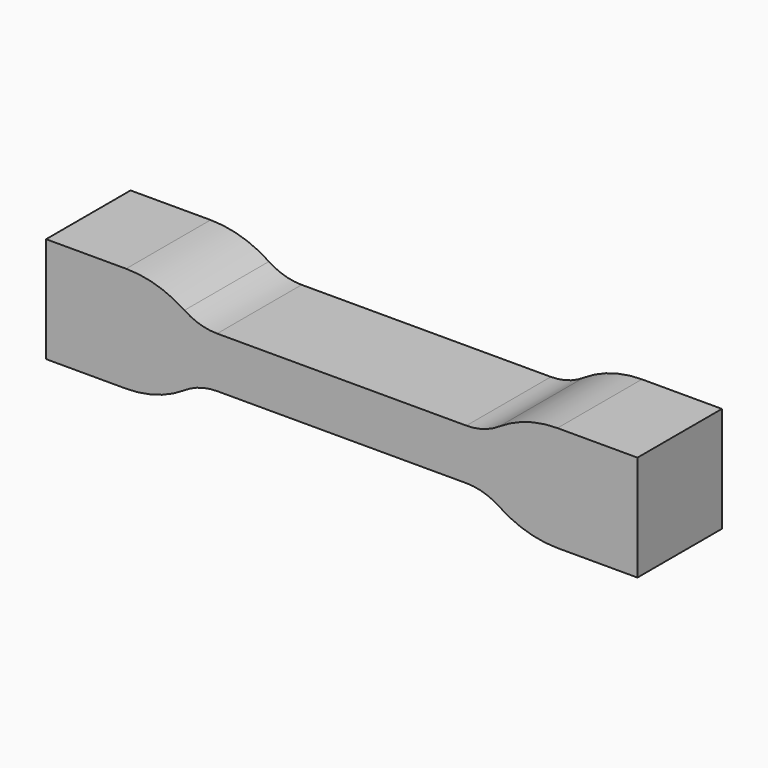
from build123d import *

# Parameters (mm, degrees)
F1_DEPTH = 25


with BuildPart() as f1:
    # F0 (on Front) → F1 (new body)
    with BuildSketch(Plane.XZ):
        with BuildLine():
            Line((-29.5, -6), (29.5, -6))
            ThreePointArc((29.5, -6), (33.541452, -6.59602), (37.238791, -8.333333))
            ThreePointArc((37.238791, -8.333333), (43.841183, -11.435678), (51.058061, -12.5))
            Line((51.058061, -12.5), (70, -12.5))
            Line((70, -12.5), (70, 0))
            Line((70, 0), (70, 12.5))
            Line((70, 12.5), (51.058061, 12.5))
            ThreePointArc((51.058061, 12.5), (43.841183, 11.435678), (37.238791, 8.333333))
            ThreePointArc((37.238791, 8.333333), (33.541452, 6.59602), (29.5, 6))
            Line((29.5, 6), (-29.5, 6))
            ThreePointArc((-29.5, 6), (-33.541452, 6.59602), (-37.238791, 8.333333))
            ThreePointArc((-37.238791, 8.333333), (-43.841183, 11.435678), (-51.058061, 12.5))
            Line((-51.058061, 12.5), (-70, 12.5))
            Line((-70, 12.5), (-70, 0))
            Line((-70, 0), (-70, -12.5))
            Line((-70, -12.5), (-51.058061, -12.5))
            ThreePointArc((-51.058061, -12.5), (-43.841183, -11.435678), (-37.238791, -8.333333))
            ThreePointArc((-37.238791, -8.333333), (-33.541452, -6.59602), (-29.5, -6))
        make_face()
    extrude(amount=F1_DEPTH)


solid = f1.part
